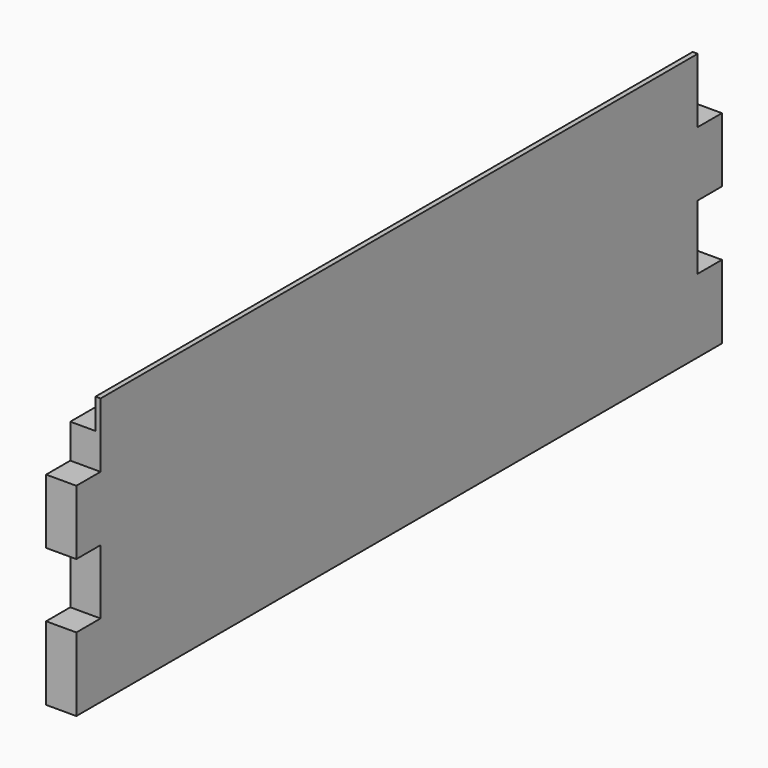
from build123d import *

# Parameters (mm, degrees)
F0_W     = 508
F0_H     = 168.275
F1_DEPTH = 19.05
F2_W     = 19.05
F2_H     = 40.64
F2_H_2   = 34.925
F3_DEPTH = 25.4
F4_W     = 469.9
F4_H     = 19.05
F5_DEPTH = 15.875


with BuildPart() as f1:
    # F0 (on Right) → F1 (new body)
    with BuildSketch(Plane.YZ):
        with Locations((-3.356125, -38.352349)):
            Rectangle(F0_W, F0_H)
    extrude(amount=F1_DEPTH)

    # F2 (on face) → F3 (cut)
    with BuildSketch(Plane.YZ.offset(19.05)):
        with Locations((241.118875, 25.465151)):
            Rectangle(F2_W, F2_H)
        with Locations((241.118875, -55.814849)):
            Rectangle(F2_W, F2_H)
        with Locations((241.118875, -139.952349)):
            Rectangle(F2_W, F2_H_2)
        with Locations((-247.831125, -55.814849)):
            Rectangle(F2_W, F2_H)
        with Locations((-247.831125, 25.465151)):
            Rectangle(F2_W, F2_H)
    extrude(amount=-F3_DEPTH, mode=Mode.SUBTRACT)

    # F4 (on face) → F5 (cut)
    with BuildSketch(Plane(origin=(0, 0, 0), x_dir=(0, -1, 0), z_dir=(-1, 0, 0))):
        with Locations((3.356125, 36.260151)):
            Rectangle(F4_W, F4_H)
    extrude(amount=-F5_DEPTH, mode=Mode.SUBTRACT)


solid = f1.part
